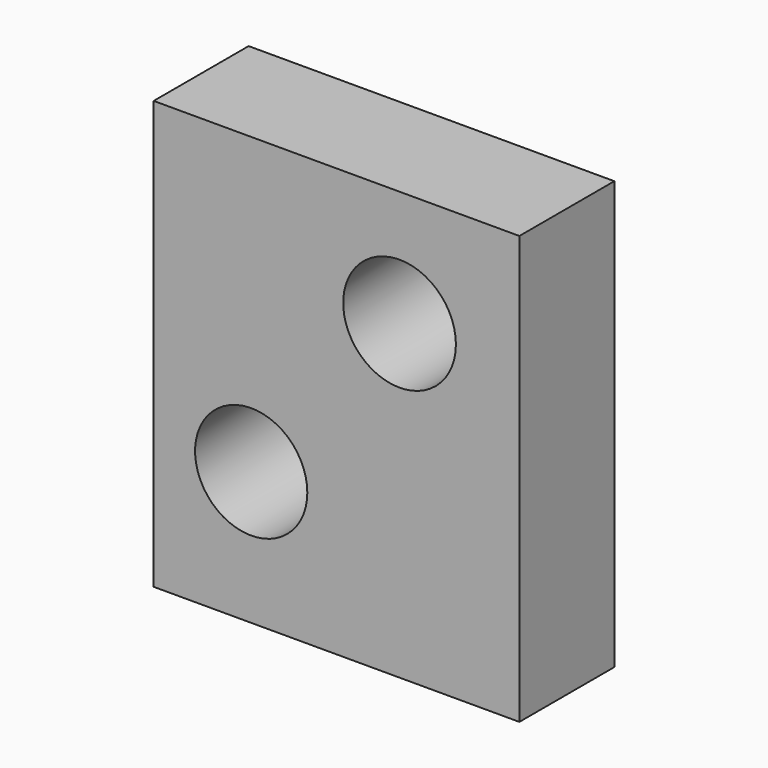
from build123d import *

# Parameters (mm, degrees)
F0_W     = 15.9
F0_H     = 18.6
F1_DEPTH = 5.16
F2_R     = 2.45
F3_DEPTH = 5.161
F4_R     = 2.44
F5_DEPTH = 5.161


with BuildPart() as f1:
    # F0 (on Front) → F1 (new body)
    with BuildSketch(Plane.XZ):
        with Locations((-1.597295, -9.081725)):
            Rectangle(F0_W, F0_H)
    extrude(amount=F1_DEPTH)

    # F2 (on face) → F3 (cut, through all)
    with BuildSketch(Plane.XZ.offset(5.16)):
        with Locations((1.142705, -4.831725)):
            Circle(F2_R)
    extrude(amount=-F3_DEPTH, mode=Mode.SUBTRACT)

    # F4 (on face) → F5 (cut, through all)
    with BuildSketch(Plane.XZ.offset(5.16)):
        with Locations((-5.307295, -12.601725)):
            Circle(F4_R)
    extrude(amount=-F5_DEPTH, mode=Mode.SUBTRACT)


solid = f1.part
